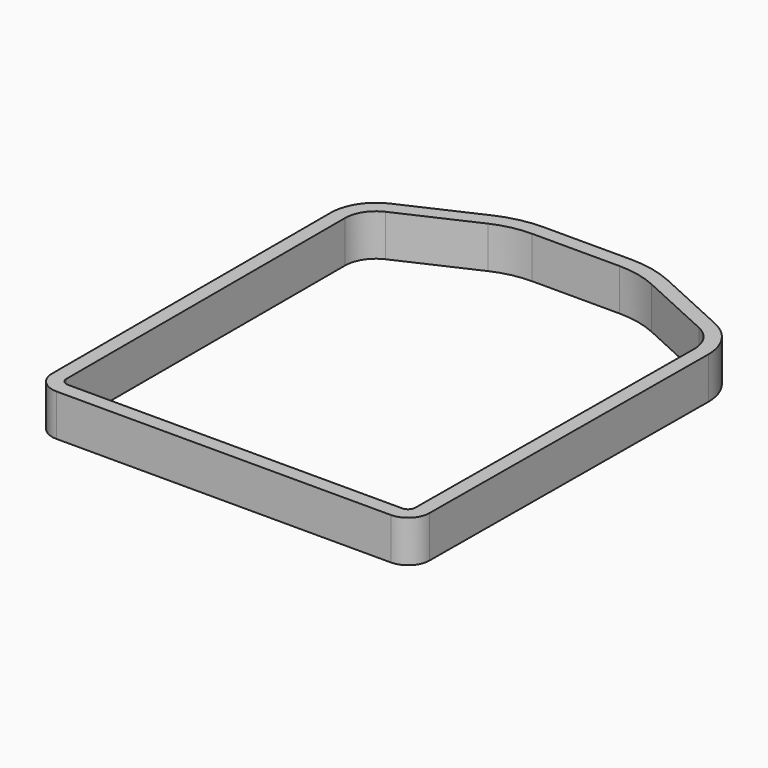
from build123d import *

# Parameters (mm, degrees)
F1_DEPTH = 3.5


with BuildPart() as f1:
    # F0 (on Top) → F1 (new body)
    with BuildSketch(Plane.XY):
        with BuildLine():
            Line((-7.318919, 20.455245), (-13.581543, 17.588701))
            ThreePointArc((-13.581543, 17.588701), (-15.197645, 16.186519), (-15.8, 14.133456))
            Line((-15.8, 14.133456), (-15.8, -15))
            ThreePointArc((-15.8, -15), (-15.272792, -16.272792), (-14, -16.8))
            Line((-14, -16.8), (14, -16.8))
            ThreePointArc((14, -16.8), (15.265835, -16.279712), (15.799893, -15.019625))
            Line((15.799893, -15.019625), (15.999997, 13.92894))
            ThreePointArc((15.999997, 13.92894), (15.367161, 16.092675), (13.664783, 17.570556))
            Line((13.664783, 17.570556), (7.402158, 20.4371))
            ThreePointArc((7.402158, 20.4371), (5.573259, 21.047124), (3.656397, 21.253625))
            Line((3.656397, 21.253625), (-3.656397, 21.253625))
            ThreePointArc((-3.656397, 21.253625), (-5.530662, 21.051713), (-7.318919, 20.455245))
        make_face()
        with BuildLine():
            ThreePointArc((-14.6, 14.133456), (-14.187862, 15.538183), (-13.082109, 16.497571))
            Line((-13.082109, 16.497571), (-6.819484, 19.364115))
            ThreePointArc((-6.819484, 19.364115), (-5.27508, 19.879247), (-3.656397, 20.053625))
            Line((-3.656397, 20.053625), (3.656397, 20.053625))
            ThreePointArc((3.656397, 20.053625), (5.317677, 19.874658), (6.902723, 19.34597))
            Line((6.902723, 19.34597), (13.165348, 16.479426))
            ThreePointArc((13.165348, 16.479426), (14.356159, 15.446239), (14.8, 13.933456))
            Line((14.8, 13.933456), (14.6, -15))
            ThreePointArc((14.6, -15), (14.424264, -15.424264), (14, -15.6))
            Line((14, -15.6), (-14, -15.6))
            ThreePointArc((-14, -15.6), (-14.424264, -15.424264), (-14.6, -15))
            Line((-14.6, -15), (-14.6, 14.133456))
        make_face(mode=Mode.SUBTRACT)
    extrude(amount=F1_DEPTH)


solid = f1.part
